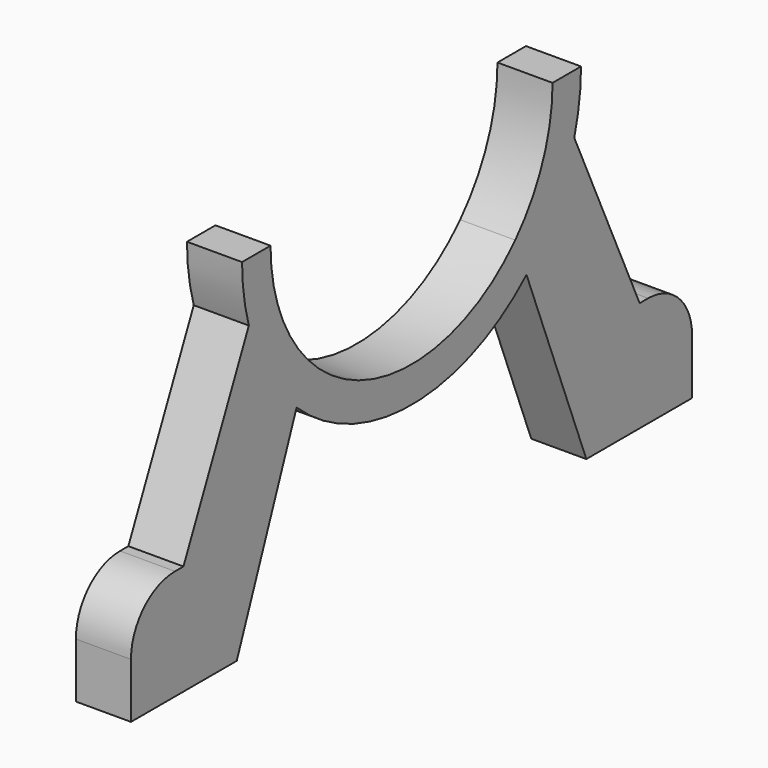
from build123d import *

# Parameters (mm, degrees)
F1_DEPTH = 6.35


with BuildPart() as f1:
    # F0 (on Right) → F1 (new body)
    with BuildSketch(Plane.YZ):
        Polygon((-25.1879972506, -27.4597358286), (-32.8692962766, -27.4597358286), (-38.6732873896, -40.1597358286), (-25.1879972506, -40.1597358286), align=None)
        with BuildLine():
            ThreePointArc((-14.941627183, -13.7713534964), (-18.9277080541, -7.3921761221), (-20.32, 0))
            Line((-20.32, 0), (-23.4457023071, -6.8395038047))
            ThreePointArc((-23.4457023071, -6.8395038047), (-20.7613176497, -12.8626380815), (-16.5634088375, -17.9480711121))
            Line((-16.5634088375, -17.9480711121), (-14.941627183, -13.7713534964))
        make_face()
        with BuildLine():
            Line((16.5634088375, -17.9480711121), (14.941627183, -13.7713534964))
            ThreePointArc((14.941627183, -13.7713534964), (0, -20.32), (-14.941627183, -13.7713534964))
            Line((-14.941627183, -13.7713534964), (-16.5634088375, -17.9480711121))
            ThreePointArc((-16.5634088375, -17.9480711121), (0, -24.4229353061), (16.5634088375, -17.9480711121))
        make_face()
        with BuildLine():
            Line((23.4457023071, -6.8395038047), (20.32, 0))
            ThreePointArc((20.32, 0), (18.9277080541, -7.3921761221), (14.941627183, -13.7713534964))
            Line((14.941627183, -13.7713534964), (16.5634088375, -17.9480711121))
            ThreePointArc((16.5634088375, -17.9480711121), (20.7613176497, -12.8626380815), (23.4457023071, -6.8395038047))
        make_face()
        Polygon((38.6732873896, -40.1597358286), (32.8692962766, -27.4597358286), (25.1879972506, -27.4597358286), (25.1879972506, -40.1597358286), align=None)
        with BuildLine():
            Line((24.4229353061, 0), (20.32, 0))
            Line((20.32, 0), (23.4457023071, -6.8395038047))
            ThreePointArc((23.4457023071, -6.8395038047), (24.1773927422, -3.4544824732), (24.4229353061, 0))
        make_face()
        with BuildLine():
            Line((-23.4457023071, -6.8395038047), (-20.32, 0))
            Line((-20.32, 0), (-24.4229353061, 0))
            ThreePointArc((-24.4229353061, 0), (-24.1773927422, -3.4544824732), (-23.4457023071, -6.8395038047))
        make_face()
        with BuildLine():
            ThreePointArc((-16.5634088375, -17.9480711121), (-20.7613176497, -12.8626380815), (-23.4457023071, -6.8395038047))
            Line((-23.4457023071, -6.8395038047), (-32.8692962766, -27.4597358286))
            Line((-32.8692962766, -27.4597358286), (-25.1879972506, -27.4597358286))
            Line((-25.1879972506, -27.4597358286), (-25.1879972506, -40.1597358286))
            Line((-25.1879972506, -40.1597358286), (-16.5634088375, -17.9480711121))
        make_face()
        Polygon((-25.1879972506, -27.4597358286), (-32.8692962766, -27.4597358286), (-38.6732873896, -40.1597358286), (-25.1879972506, -40.1597358286), align=None)
        Polygon((38.6732873896, -40.1597358286), (32.8692962766, -27.4597358286), (25.1879972506, -27.4597358286), (25.1879972506, -40.1597358286), align=None)
        with BuildLine():
            Line((32.8692962766, -27.4597358286), (23.4457023071, -6.8395038047))
            ThreePointArc((23.4457023071, -6.8395038047), (20.7613176497, -12.8626380815), (16.5634088375, -17.9480711121))
            Line((16.5634088375, -17.9480711121), (25.1879972506, -40.1597358286))
            Line((25.1879972506, -40.1597358286), (25.1879972506, -27.4597358286))
            Line((25.1879972506, -27.4597358286), (32.8692962766, -27.4597358286))
        make_face()
        with BuildLine():
            Line((34.0779972506, -27.4597358286), (32.8692962766, -27.4597358286))
            Line((32.8692962766, -27.4597358286), (38.6732873896, -40.1597358286))
            Line((38.6732873896, -40.1597358286), (40.4279972506, -40.1597358286))
            Line((40.4279972506, -40.1597358286), (40.4279972506, -33.8097358286))
            ThreePointArc((40.4279972506, -33.8097358286), (38.5681253111, -29.3196077681), (34.0779972506, -27.4597358286))
        make_face()
        with BuildLine():
            Line((-38.6732873896, -40.1597358286), (-32.8692962766, -27.4597358286))
            Line((-32.8692962766, -27.4597358286), (-34.0779972506, -27.4597358286))
            ThreePointArc((-34.0779972506, -27.4597358286), (-38.5681253111, -29.3196077681), (-40.4279972506, -33.8097358286))
            Line((-40.4279972506, -33.8097358286), (-40.4279972506, -40.1597358286))
            Line((-40.4279972506, -40.1597358286), (-38.6732873896, -40.1597358286))
        make_face()
    extrude(amount=F1_DEPTH)


solid = f1.part
